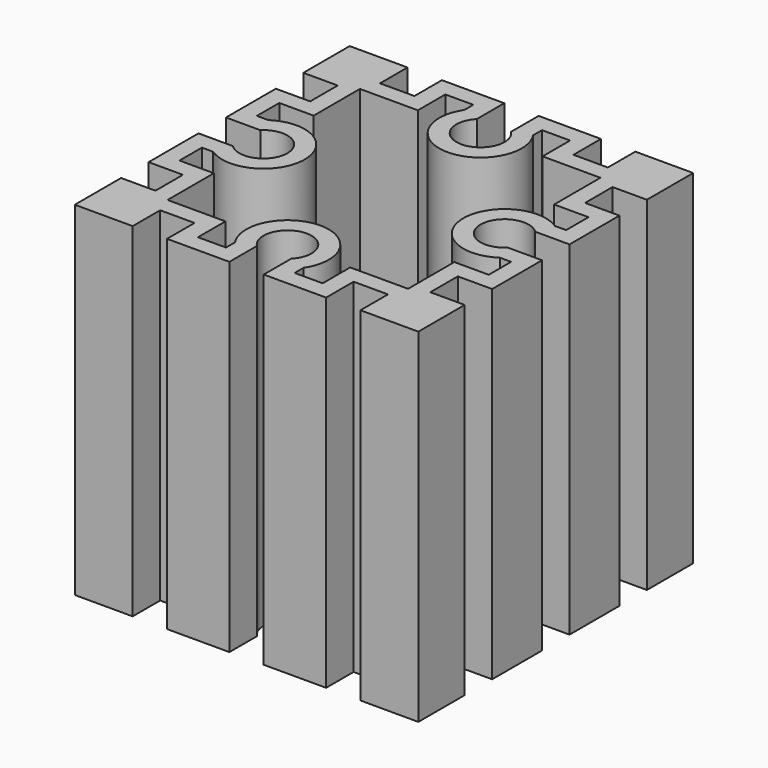
from build123d import *

# Parameters (mm, degrees)
F1_DEPTH = 127


with BuildPart() as f1:
    # F0 (on Top) → F1 (new body)
    with BuildSketch(Plane.XY):
        with BuildLine():
            Line((-42.099868, 63.5), (-63.5, 63.5))
            Line((-63.5, 63.5), (-63.5, 42.099868))
            Line((-63.5, 42.099868), (-50.8, 42.099868))
            Line((-50.8, 42.099868), (-50.8, 29.399868))
            Line((-50.8, 29.399868), (-63.5, 29.399868))
            Line((-63.5, 29.399868), (-63.5, 6.35))
            Line((-63.5, 6.35), (-50.8, 6.35))
            ThreePointArc((-50.8, 6.35), (-35.688296, 0), (-50.8, -6.35))
            Line((-50.8, -6.35), (-63.5, -6.35))
            Line((-63.5, -6.35), (-63.5, -29.399868))
            Line((-63.5, -29.399868), (-50.8, -29.399868))
            Line((-50.8, -29.399868), (-50.8, -42.099868))
            Line((-50.8, -42.099868), (-63.5, -42.099868))
            Line((-63.5, -42.099868), (-63.5, -63.5))
            Line((-63.5, -63.5), (-42.099868, -63.5))
            Line((-42.099868, -63.5), (-42.099868, -50.8))
            Line((-42.099868, -50.8), (-29.399868, -50.8))
            Line((-29.399868, -50.8), (-29.399868, -63.5))
            Line((-29.399868, -63.5), (-6.35, -63.5))
            Line((-6.35, -63.5), (-6.35, -50.8))
            ThreePointArc((-6.35, -50.8), (0, -35.688296), (6.35, -50.8))
            Line((6.35, -50.8), (6.35, -63.5))
            Line((6.35, -63.5), (29.399868, -63.5))
            Line((29.399868, -63.5), (29.399868, -50.8))
            Line((29.399868, -50.8), (42.099868, -50.8))
            Line((42.099868, -50.8), (42.099868, -63.5))
            Line((42.099868, -63.5), (63.5, -63.5))
            Line((63.5, -63.5), (63.5, -42.099868))
            Line((63.5, -42.099868), (50.8, -42.099868))
            Line((50.8, -42.099868), (50.8, -29.399868))
            Line((50.8, -29.399868), (63.5, -29.399868))
            Line((63.5, -29.399868), (63.5, -6.35))
            Line((63.5, -6.35), (50.8, -6.35))
            ThreePointArc((50.8, -6.35), (35.688296, 0), (50.8, 6.35))
            Line((50.8, 6.35), (63.5, 6.35))
            Line((63.5, 6.35), (63.5, 29.399868))
            Line((63.5, 29.399868), (50.8, 29.399868))
            Line((50.8, 29.399868), (50.8, 42.099868))
            Line((50.8, 42.099868), (63.5, 42.099868))
            Line((63.5, 42.099868), (63.5, 63.5))
            Line((63.5, 63.5), (42.099868, 63.5))
            Line((42.099868, 63.5), (42.099868, 50.8))
            Line((42.099868, 50.8), (29.399868, 50.8))
            Line((29.399868, 50.8), (29.399868, 63.5))
            Line((29.399868, 63.5), (6.35, 63.5))
            Line((6.35, 63.5), (6.35, 50.8))
            ThreePointArc((6.35, 50.8), (0, 35.688296), (-6.35, 50.8))
            Line((-6.35, 50.8), (-6.35, 63.5))
            Line((-6.35, 63.5), (-29.399868, 63.5))
            Line((-29.399868, 63.5), (-29.399868, 50.8))
            Line((-29.399868, 50.8), (-42.099868, 50.8))
            Line((-42.099868, 50.8), (-42.099868, 63.5))
        make_face()
        with BuildLine():
            Line((-57.15, 23.049868), (-44.45, 23.049868))
            Line((-44.45, 23.049868), (-44.45, 44.45))
            Line((-44.45, 44.45), (-23.049868, 44.45))
            Line((-23.049868, 44.45), (-23.049868, 57.15))
            Line((-23.049868, 57.15), (-12.7, 57.15))
            Line((-12.7, 57.15), (-12.7, 53.002523))
            ThreePointArc((-12.7, 53.002523), (0, 29.338296), (12.7, 53.002523))
            Line((12.7, 53.002523), (12.7, 57.15))
            Line((12.7, 57.15), (23.049868, 57.15))
            Line((23.049868, 57.15), (23.049868, 44.45))
            Line((23.049868, 44.45), (44.45, 44.45))
            Line((44.45, 44.45), (44.45, 23.049868))
            Line((44.45, 23.049868), (57.15, 23.049868))
            Line((57.15, 23.049868), (57.15, 12.7))
            Line((57.15, 12.7), (53.002523, 12.7))
            ThreePointArc((53.002523, 12.7), (29.338296, 0), (53.002523, -12.7))
            Line((53.002523, -12.7), (57.15, -12.7))
            Line((57.15, -12.7), (57.15, -23.049868))
            Line((57.15, -23.049868), (44.45, -23.049868))
            Line((44.45, -23.049868), (44.45, -44.45))
            Line((44.45, -44.45), (23.049868, -44.45))
            Line((23.049868, -44.45), (23.049868, -57.15))
            Line((23.049868, -57.15), (12.7, -57.15))
            Line((12.7, -57.15), (12.7, -53.002523))
            ThreePointArc((12.7, -53.002523), (0, -29.338296), (-12.7, -53.002523))
            Line((-12.7, -53.002523), (-12.7, -57.15))
            Line((-12.7, -57.15), (-23.049868, -57.15))
            Line((-23.049868, -57.15), (-23.049868, -44.45))
            Line((-23.049868, -44.45), (-44.45, -44.45))
            Line((-44.45, -44.45), (-44.45, -23.049868))
            Line((-44.45, -23.049868), (-57.15, -23.049868))
            Line((-57.15, -23.049868), (-57.15, -12.7))
            Line((-57.15, -12.7), (-53.002523, -12.7))
            ThreePointArc((-53.002523, -12.7), (-29.338296, 0), (-53.002523, 12.7))
            Line((-53.002523, 12.7), (-57.15, 12.7))
            Line((-57.15, 12.7), (-57.15, 23.049868))
        make_face(mode=Mode.SUBTRACT)
    extrude(amount=F1_DEPTH)


solid = f1.part
